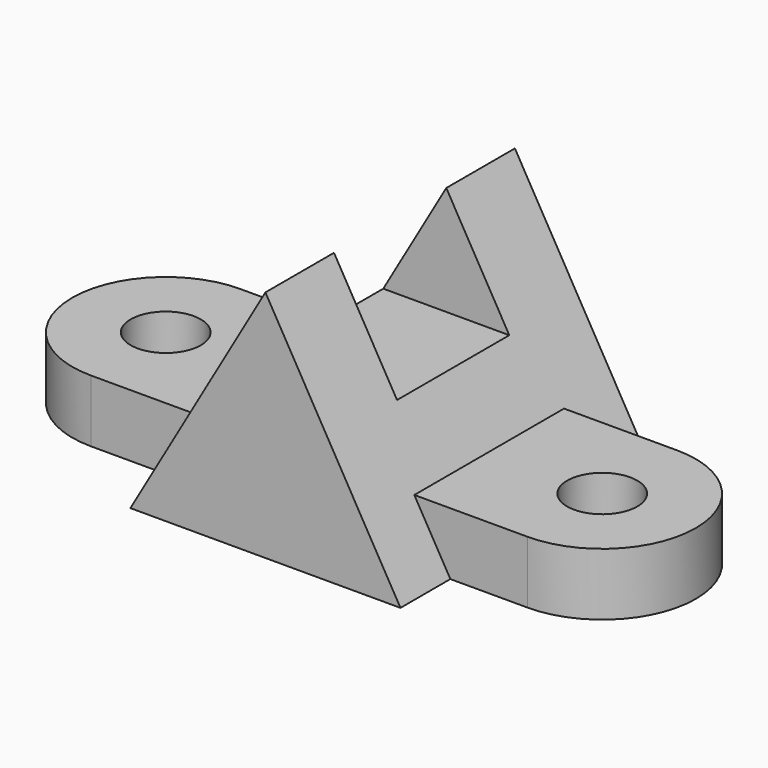
from build123d import *

# Parameters (mm, degrees)
F0_R     = 7.14375
F1_DEPTH = 12.7
F3_DEPTH = 31.75
F5_DEPTH = 25.4


with BuildPart() as f1:
    # F0 (on Top) → F1 (new body)
    with BuildSketch(Plane.XY):
        with BuildLine():
            Line((43.195924403, 19.05), (-45.704075597, 19.05))
            ThreePointArc((-45.704075597, 19.05), (-64.754075597, 0), (-45.704075597, -19.05))
            Line((-45.704075597, -19.05), (43.195924403, -19.05))
            ThreePointArc((43.195924403, -19.05), (62.245924403, 0), (43.195924403, 19.05))
        make_face()
        with Locations((-45.704075597, 0)):
            Circle(F0_R, mode=Mode.SUBTRACT)
        with Locations((43.195924403, 0)):
            Circle(F0_R, mode=Mode.SUBTRACT)
    extrude(amount=F1_DEPTH)

    # F2 (on Front) → F3 (join, symmetric)
    with BuildSketch(Plane.XZ):
        Polygon((-27.4963065702, 0), (0, 0), (0, 47.625), align=None)
        Polygon((0, 47.625), (0, 0), (27.4963065702, 0), align=None)
    extrude(amount=F3_DEPTH, both=True)

    # F4 (on Right) → F5 (cut, symmetric)
    with BuildSketch(Plane.YZ):
        Polygon((14.2875, 47.625), (0, 47.625), (-14.2875, 47.625), (-14.2875, 25.4), (14.2875, 25.4), align=None)
    extrude(amount=F5_DEPTH, both=True, mode=Mode.SUBTRACT)


solid = f1.part
